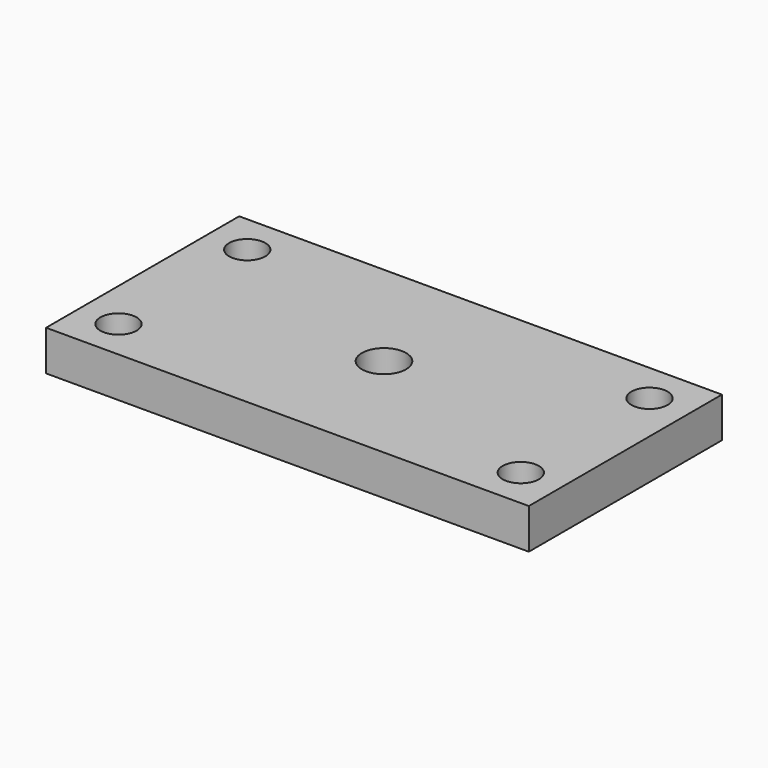
from build123d import *

# Parameters (mm, degrees)
F0_W     = 60
F0_H     = 30
F0_R     = 2.3276223463
F0_R_2   = 2.3015247155
F0_R_3   = 2.1862089509
F0_R_4   = 12
F0_R_5   = 1.5601782255
F1_DEPTH = 5
F2_D     = 4.5
F3_D     = 5.5


with BuildPart() as f1:
    # F0 (on Top) → F1 (new body)
    with BuildSketch(Plane.XY):
        Rectangle(F0_W, F0_H)
        with Locations((-25, -10)):
            Circle(F0_R, mode=Mode.SUBTRACT)
        with Locations((25, -10)):
            Circle(F0_R_2, mode=Mode.SUBTRACT)
        with Locations((-25, 10)):
            Circle(F0_R_3, mode=Mode.SUBTRACT)
        Circle(F0_R_4, mode=Mode.SUBTRACT)
        with Locations((25, 10)):
            Circle(F0_R_5, mode=Mode.SUBTRACT)
        Circle(F0_R_4)
        with BuildLine():
            ThreePointArc((-2.5620431112, -6.5142869983), (0.0664242114, 6.9996848375), (2.4379568888, -6.5617349999))
            Line((2.4379568888, -6.5617349999), (2.4379568888, -9.5))
            Line((2.4379568888, -9.5), (-2.5620431112, -9.5))
            Line((-2.5620431112, -9.5), (-2.5620431112, -6.5142869983))
        make_face(mode=Mode.SUBTRACT)
        with BuildLine():
            Line((2.4379568888, -9.5), (2.4379568888, -6.5617349999))
            ThreePointArc((2.4379568888, -6.5617349999), (0.0664242114, 6.9996848375), (-2.5620431112, -6.5142869983))
            Line((-2.5620431112, -6.5142869983), (-2.5620431112, -9.5))
            Line((-2.5620431112, -9.5), (2.4379568888, -9.5))
        make_face()
        with Locations((-25, -10)):
            Circle(F0_R)
        with Locations((25, -10)):
            Circle(F0_R_2)
        with Locations((-25, 10)):
            Circle(F0_R_3)
        with Locations((25, 10)):
            Circle(F0_R_5)
    extrude(amount=F1_DEPTH)

    # F2 (through all)
    with Locations(Plane(origin=(0, 0, 0), x_dir=(1, 0, 0), z_dir=(0, 0, -1))):
        with Locations((25, -10), (-25, -10), (-25, 10), (25, 10)):
            Hole(F2_D / 2)

    # F3 (through all)
    with Locations(Plane(origin=(0, 0, 0), x_dir=(1, 0, 0), z_dir=(0, 0, -1))):
        with Locations((0, 0)):
            Hole(F3_D / 2)


solid = f1.part
